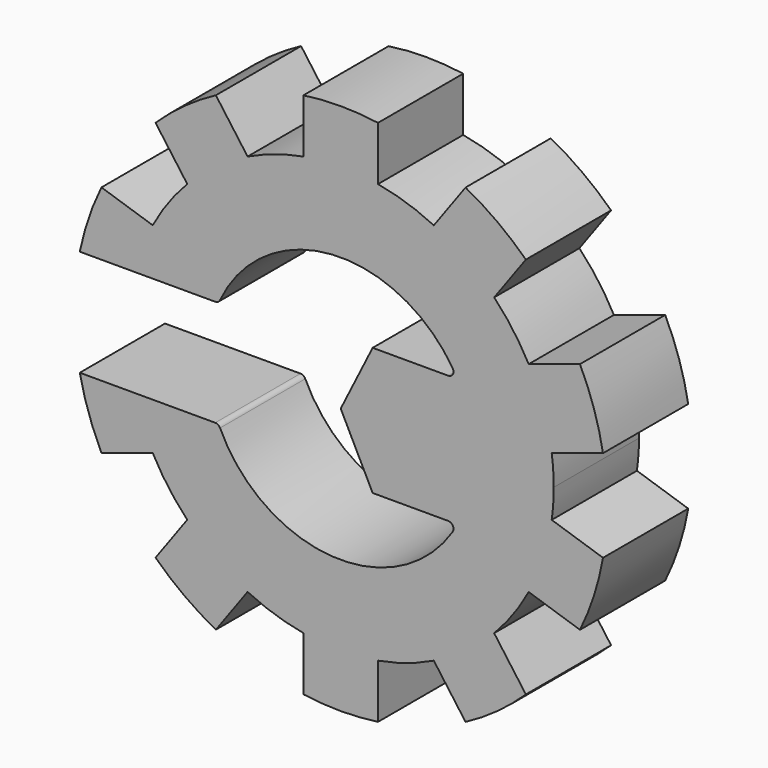
from build123d import *

# Parameters (mm, degrees)
F1_DEPTH = 50.8
F3_DEPTH = 50.8


with BuildPart() as f1:
    # F0 (on Front) → F1 (new body)
    with BuildSketch(Plane.XZ):
        with BuildLine():
            Line((17.78, 100.032153), (17.78, 125.749241))
            ThreePointArc((17.78, 125.749241), (0, 127), (-17.78, 125.749241))
            Line((-17.78, 125.749241), (-17.78, 100.032153))
            ThreePointArc((-17.78, 100.032153), (0, 101.6), (17.78, 100.032153))
        make_face()
        with BuildLine():
            ThreePointArc((44.413102, 91.378533), (31.396127, 96.627342), (17.78, 100.032153))
            ThreePointArc((17.78, 100.032153), (0, 101.6), (-17.78, 100.032153))
            ThreePointArc((-17.78, 100.032153), (-31.396127, 96.627342), (-44.413102, 91.378533))
            ThreePointArc((-44.413102, 91.378533), (-59.718982, 82.196127), (-73.181746, 70.47689))
            ThreePointArc((-73.181746, 70.47689), (-82.196127, 59.718982), (-89.641909, 47.82142))
            ThreePointArc((-89.641909, 47.82142), (-96.627342, 31.396127), (-100.630553, 14.00185))
            ThreePointArc((-100.630553, 14.00185), (-101.6, 0), (-100.630553, -14.00185))
            ThreePointArc((-100.630553, -14.00185), (-96.627342, -31.396127), (-89.641909, -47.82142))
            ThreePointArc((-89.641909, -47.82142), (-82.196127, -59.718982), (-73.181746, -70.47689))
            ThreePointArc((-73.181746, -70.47689), (-59.718982, -82.196127), (-44.413102, -91.378533))
            ThreePointArc((-44.413102, -91.378533), (-31.396127, -96.627342), (-17.78, -100.032153))
            ThreePointArc((-17.78, -100.032153), (0, -101.6), (17.78, -100.032153))
            ThreePointArc((17.78, -100.032153), (31.396127, -96.627342), (44.413102, -91.378533))
            ThreePointArc((44.413102, -91.378533), (59.718982, -82.196127), (73.181746, -70.47689))
            ThreePointArc((73.181746, -70.47689), (82.196127, -59.718982), (89.641909, -47.82142))
            ThreePointArc((89.641909, -47.82142), (96.627342, -31.396127), (100.630553, -14.00185))
            ThreePointArc((100.630553, -14.00185), (101.357348, -7.017686), (101.6, 0))
            ThreePointArc((101.6, 0), (101.357348, 7.017686), (100.630553, 14.00185))
            ThreePointArc((100.630553, 14.00185), (96.627342, 31.396127), (89.641909, 47.82142))
            ThreePointArc((89.641909, 47.82142), (82.196127, 59.718982), (73.181746, 70.47689))
            ThreePointArc((73.181746, 70.47689), (59.718982, 82.196127), (44.413102, 91.378533))
        make_face()
        with BuildLine():
            Line((59.529227, 112.184095), (44.413102, 91.378533))
            ThreePointArc((44.413102, 91.378533), (59.718982, 82.196127), (73.181746, 70.47689))
            Line((73.181746, 70.47689), (88.297871, 91.282451))
            ThreePointArc((88.297871, 91.282451), (74.648727, 102.745158), (59.529227, 112.184095))
        make_face()
        with BuildLine():
            ThreePointArc((-73.181746, 70.47689), (-59.718982, 82.196127), (-44.413102, 91.378533))
            Line((-44.413102, 91.378533), (-59.529227, 112.184095))
            ThreePointArc((-59.529227, 112.184095), (-74.648727, 102.745158), (-88.297871, 91.282451))
            Line((-88.297871, 91.282451), (-73.181746, 70.47689))
        make_face()
        with BuildLine():
            Line((114.100313, 55.768437), (89.641909, 47.82142))
            ThreePointArc((89.641909, 47.82142), (96.627342, 31.396127), (100.630553, 14.00185))
            Line((100.630553, 14.00185), (125.088957, 21.948868))
            ThreePointArc((125.088957, 21.948868), (120.784178, 39.245158), (114.100313, 55.768437))
        make_face()
        with BuildLine():
            ThreePointArc((-100.630553, 14.00185), (-96.627342, 31.396127), (-89.641909, 47.82142))
            Line((-89.641909, 47.82142), (-114.100313, 55.768437))
            ThreePointArc((-114.100313, 55.768437), (-120.784178, 39.245158), (-125.088957, 21.948868))
            Line((-125.088957, 21.948868), (-100.630553, 14.00185))
        make_face()
        with BuildLine():
            ThreePointArc((-89.641909, -47.82142), (-96.627342, -31.396127), (-100.630553, -14.00185))
            Line((-100.630553, -14.00185), (-125.088957, -21.948868))
            ThreePointArc((-125.088957, -21.948868), (-120.784178, -39.245158), (-114.100313, -55.768437))
            Line((-114.100313, -55.768437), (-89.641909, -47.82142))
        make_face()
        with BuildLine():
            Line((125.088957, -21.948868), (100.630553, -14.00185))
            ThreePointArc((100.630553, -14.00185), (96.627342, -31.396127), (89.641909, -47.82142))
            Line((89.641909, -47.82142), (114.100313, -55.768437))
            ThreePointArc((114.100313, -55.768437), (120.784178, -39.245158), (125.088957, -21.948868))
        make_face()
        with BuildLine():
            ThreePointArc((-44.413102, -91.378533), (-59.718982, -82.196127), (-73.181746, -70.47689))
            Line((-73.181746, -70.47689), (-88.297871, -91.282451))
            ThreePointArc((-88.297871, -91.282451), (-74.648727, -102.745158), (-59.529227, -112.184095))
            Line((-59.529227, -112.184095), (-44.413102, -91.378533))
        make_face()
        with BuildLine():
            Line((88.297871, -91.282451), (73.181746, -70.47689))
            ThreePointArc((73.181746, -70.47689), (59.718982, -82.196127), (44.413102, -91.378533))
            Line((44.413102, -91.378533), (59.529227, -112.184095))
            ThreePointArc((59.529227, -112.184095), (74.648727, -102.745158), (88.297871, -91.282451))
        make_face()
        with BuildLine():
            ThreePointArc((17.78, -100.032153), (0, -101.6), (-17.78, -100.032153))
            Line((-17.78, -100.032153), (-17.78, -125.749241))
            ThreePointArc((-17.78, -125.749241), (0, -127), (17.78, -125.749241))
            Line((17.78, -125.749241), (17.78, -100.032153))
        make_face()
    extrude(amount=F1_DEPTH)

    # F2 (on face) → F3 (cut)
    with BuildSketch(Plane.XZ.offset(50.8)):
        with BuildLine():
            ThreePointArc((51.242572, 30.48), (53.472619, 31.804068), (53.377679, 34.395833))
            ThreePointArc((53.377679, 34.395833), (-4.301373, 63.354149), (-57.536954, 26.865385))
            ThreePointArc((-57.536954, 26.865385), (-58.474234, 25.79744), (-59.838432, 25.4))
            Line((-59.838432, 25.4), (-136.038432, 25.4))
            Line((-136.038432, 25.4), (-136.038432, -25.4))
            Line((-136.038432, -25.4), (-59.838432, -25.4))
            ThreePointArc((-59.838432, -25.4), (-58.474234, -25.79744), (-57.536954, -26.865385))
            ThreePointArc((-57.536954, -26.865385), (-4.301373, -63.354149), (53.377679, -34.395833))
            ThreePointArc((53.377679, -34.395833), (53.472619, -31.804068), (51.242572, -30.48))
            Line((51.242572, -30.48), (15.24, -30.48))
            Line((15.24, -30.48), (0, 0))
            Line((0, 0), (15.24, 30.48))
            Line((15.24, 30.48), (51.242572, 30.48))
        make_face()
    extrude(amount=-F3_DEPTH, mode=Mode.SUBTRACT)


solid = f1.part
